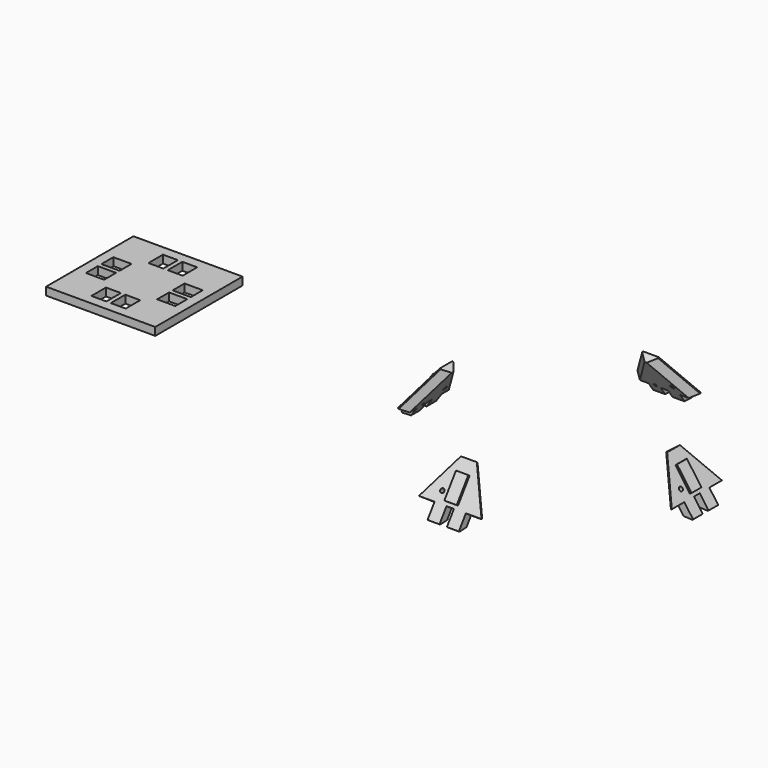
from build123d import *

# Parameters (mm, degrees)
F2_R      = 0.4176776
F2_W      = 0.5
F2_H      = 0.5
F3_DEPTH  = 1.6
F4_DEPTH  = 0.6
F8_DEPTH  = 12.5
F13_DEPTH = 0.4
F14_COUNT = 4
F15_DEPTH = 1.6


with BuildPart() as f3:
    # F2 (on line) → F3 (new body)
    with BuildSketch(Plane(origin=(0, 0, 0), x_dir=(0, -1, 0), z_dir=(-0.8165408119, 0, 0.5772877121))):
        Polygon((3.175, -2.5537414), (6.3499746, -2.5537414), (1.616583, 5.644769), (-1.616583, 5.644769), (-6.35, -2.5537414), (-3.175, -2.5537414), (-3.175, -5.6447436), (-0.7500112, -5.6447436), (-0.7500112, -2.5537414), (0.7499858, -2.5537414), (0.7499858, -5.6447436), (3.175, -5.6447436), align=None)
        with Locations((-2.5521412, -0.4817872)):
            Circle(F2_R, mode=Mode.SUBTRACT)
        with Locations((1.7124929, -2.3037414)):
            Rectangle(F2_W, F2_H, mode=Mode.SUBTRACT)
        with Locations((1.7124929, -2.3037414)):
            Rectangle(F2_W, F2_H)
    extrude(amount=F3_DEPTH)

    # F2 (on line) → F4 (cut)
    with BuildSketch(Plane(origin=(0, 0, 0), x_dir=(0, -1, 0), z_dir=(-0.8165408119, 0, 0.5772877121))):
        with Locations((1.7124929, -2.3037414)):
            Rectangle(F2_W, F2_H)
    extrude(amount=F4_DEPTH, mode=Mode.SUBTRACT)

    # F7 (on Front) → F8 (cut, symmetric)
    with BuildSketch(Plane.XZ):
        Polygon((-4.4017982548, -3.8009607251), (-3.2586411182, -4.609163522), (-2.6236246349, -3.710968629), align=None)
    extrude(amount=F8_DEPTH, both=True, mode=Mode.SUBTRACT)

    # F10: sweep along a path in F2
    with BuildLine(Plane(origin=(0, 0, 0), x_dir=(0, -1, 0), z_dir=(-0.8165408119, 0, 0.5772877121))) as f10_path:
        Line((-1.616583, 5.644769), (-6.35, -2.5537414))
    # F9 (on face) → F10 (sweep, cut)
    with BuildSketch(Plane(origin=(3.2586557813, 0, 4.6091842622), x_dir=(0.8165408119, 0, -0.5772877121), z_dir=(0.5772877121, 0, 0.8165408119))):
        Polygon((-1.4, 1.616583), (0, 0.216583), (0, 1.616583), align=None)
    sweep(path=f10_path.line, mode=Mode.SUBTRACT)

    # F11: sweep along a path in F2
    with BuildLine(Plane(origin=(0, 0, 0), x_dir=(0, -1, 0), z_dir=(-0.8165408119, 0, 0.5772877121))) as f11_path:
        Line((6.3499746, -2.5537414), (1.616583, 5.644769))
    # F9 (on face) → F11 (sweep, cut)
    with BuildSketch(Plane(origin=(3.2586557813, 0, 4.6091842622), x_dir=(0.8165408119, 0, -0.5772877121), z_dir=(0.5772877121, 0, 0.8165408119))):
        Polygon((-1.4, -1.616583), (0, -1.616583), (0, -0.216583), align=None)
    sweep(path=f11_path.line, mode=Mode.SUBTRACT)

    # F12 (on face) → F13 (join)
    with BuildSketch(Plane(origin=(-1.306465299, 0, 0.9236603393), x_dir=(0, -1, 0), z_dir=(-0.8165408119, 0, 0.5772877121))):
        Polygon((-1.2500127, -1.8552414), (-1.27e-05, -1.8552414), (1.2499873, -1.8552414), (1.2499873, 3.2447586), (-1.2500127, 3.2447586), align=None)
    extrude(amount=F13_DEPTH)


with BuildPart() as f14_1:
    # F14: instance of F3
    add(f3.part.rotate(Axis((25, 0, 13.0700236186), (0, 0, 1)), 1 * 360 / F14_COUNT))


with BuildPart() as f14_2:
    # F14: instance of F3
    add(f3.part.rotate(Axis((25, 0, 13.0700236186), (0, 0, 1)), 2 * 360 / F14_COUNT))


with BuildPart() as f14_3:
    # F14: instance of F3
    add(f3.part.rotate(Axis((25, 0, 13.0700236186), (0, 0, 1)), 3 * 360 / F14_COUNT))


with BuildPart() as f15:
    # F0 (on Top) → F15 (new body)
    with BuildSketch(Plane.XY):
        Polygon((-48.7340140302, -10.3659676388), (-48.7340140302, 0.6999995612), (-48.7340140302, 11.7659921612), (-59.8000066302, 11.7659921612), (-70.8659738302, 11.7659921612), (-70.8659738302, 0.6999995612), (-70.8659738302, -10.3659676388), (-59.8000066302, -10.3659676388), align=None)
        Polygon((-60.2499930302, -4.6749706388), (-60.2499930302, -8.3659716388), (-63.2749806302, -8.3659716388), (-63.2749806302, -8.0659722388), (-63.2749806302, -4.9749700388), (-63.2749806302, -4.6749706388), align=None, mode=Mode.SUBTRACT)
        Polygon((-56.3250072302, -8.3659716388), (-59.3499948302, -8.3659716388), (-59.3499948302, -4.6749706388), (-56.3250072302, -4.6749706388), (-56.3250072302, -4.9749700388), (-56.3250072302, -8.0659722388), align=None, mode=Mode.SUBTRACT)
        Polygon((-68.8659778302, -2.7749744388), (-68.8659778302, 0.2500131612), (-65.1749768302, 0.2500131612), (-65.1749768302, -2.7749744388), (-65.4749762302, -2.7749744388), (-68.5659784302, -2.7749744388), align=None, mode=Mode.SUBTRACT)
        Polygon((-54.4250110302, 0.2500131612), (-50.7340100302, 0.2500131612), (-50.7340100302, -2.7749744388), (-51.0340094302, -2.7749744388), (-54.1250116302, -2.7749744388), (-54.4250110302, -2.7749744388), align=None, mode=Mode.SUBTRACT)
        Polygon((-65.1749768302, 1.1500113612), (-68.8659778302, 1.1500113612), (-68.8659778302, 4.1749989612), (-68.5659784302, 4.1749989612), (-65.4749762302, 4.1749989612), (-65.1749768302, 4.1749989612), align=None, mode=Mode.SUBTRACT)
        Polygon((-50.7340100302, 4.1749989612), (-50.7340100302, 1.1500113612), (-54.4250110302, 1.1500113612), (-54.4250110302, 4.1749989612), (-54.1250116302, 4.1749989612), (-51.0340094302, 4.1749989612), align=None, mode=Mode.SUBTRACT)
        Polygon((-63.2749806302, 9.7659961612), (-60.2499930302, 9.7659961612), (-60.2499930302, 6.0749951612), (-63.2749806302, 6.0749951612), (-63.2749806302, 6.3749945612), (-63.2749806302, 9.4659967612), align=None, mode=Mode.SUBTRACT)
        Polygon((-59.3499948302, 6.0749951612), (-59.3499948302, 9.7659961612), (-56.3250072302, 9.7659961612), (-56.3250072302, 9.4659967612), (-56.3250072302, 6.3749945612), (-56.3250072302, 6.0749951612), align=None, mode=Mode.SUBTRACT)
    extrude(amount=-F15_DEPTH)


solid = Compound([f3.part, f14_1.part, f14_2.part, f14_3.part, f15.part])
